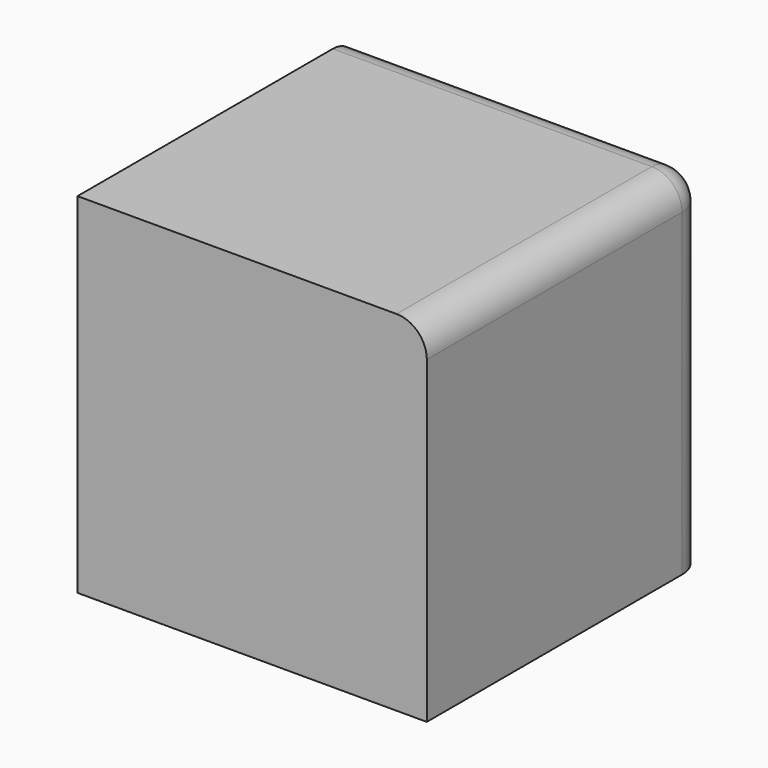
from build123d import *

# Parameters (mm, degrees)
SKETCH066_W             = 41.021
SKETCH066_H             = 41.021
PAD055_DEPTH            = 41.021
SKETCH065_W             = 25.908
SKETCH065_H             = 25.908
PAD056_DEPTH            = 6.35
FILLET010_R             = 3.556
FILLET011_R             = 3.556
BODY044_PLACEMENT_ANGLE = 270


with BuildPart() as part:
    # Sketch066 → Pad055 (new body)
    with BuildSketch(Plane.XZ):
        with Locations((20.5105, 20.5105)):
            Rectangle(SKETCH066_W, SKETCH066_H)
    extrude(amount=PAD055_DEPTH)

    # Sketch065 (on Face3 of Pad055) → Pad056 (join)
    with BuildSketch(Plane(origin=(0, 0, 0), x_dir=(1, 0, 0), z_dir=(0, 0, -1))):
        with Locations((20.507403, 20.507403)):
            Rectangle(SKETCH065_W, SKETCH065_H)
    extrude(amount=PAD056_DEPTH)

    # Fillet010
    fillet010_edges = [part.edges().sort_by_distance(p)[0] for p in [
        (7.553403, -20.507403, -6.35),
        (20.507403, -33.461403, -6.35),
        (20.507403, -7.553403, -6.35),
        (33.461403, -20.507403, -6.35),
    ]]
    fillet(fillet010_edges, radius=FILLET010_R)

    # Fillet011
    fillet011_edges = [part.edges().sort_by_distance(p)[0] for p in [
        (20.5105, -41.021, 41.021),
        (41.021, -41.021, 20.5105),
        (41.021, -20.5105, 41.021),
    ]]
    fillet(fillet011_edges, radius=FILLET011_R)


with BuildPart() as part_1:
    # Body044 placement: moved
    add(part.part.moved(Location((-41.1226, 2438.775841, 2459.1772))).rotate(Axis((-41.1226, 2438.775841, 2459.1772), (0, 0, -1)), BODY044_PLACEMENT_ANGLE))


solid = part_1.part
